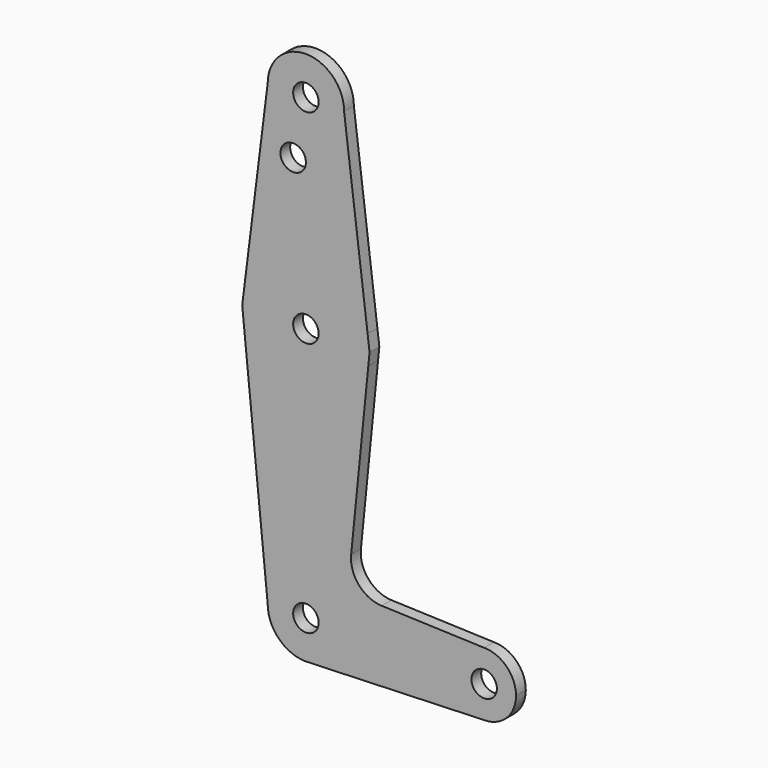
from build123d import *

# Parameters (mm, degrees)
F0_R     = 3.175
F1_DEPTH = 3.048


with BuildPart() as f1:
    # F0 (on Front) → F1 (new body)
    with BuildSketch(Plane.XZ):
        with BuildLine():
            ThreePointArc((9.525, 114.3), (0, 123.825), (-9.525, 114.3))
            ThreePointArc((-9.525, 114.3), (0, 104.775), (9.525, 114.3))
        make_face()
        with Locations((0, 114.3)):
            Circle(F0_R, mode=Mode.SUBTRACT)
        with BuildLine():
            Line((-9.525, 114.3), (-15.386538, 67.407692))
            ThreePointArc((-15.386538, 67.407692), (0, 79.375), (15.386538, 67.407692))
            Line((15.386538, 67.407692), (9.525, 114.3))
            ThreePointArc((9.525, 114.3), (0, 104.775), (-9.525, 114.3))
        make_face()
        with Locations((-3.175, 100.0252)):
            Circle(F0_R, mode=Mode.SUBTRACT)
        with BuildLine():
            Line((-15.875, 63.5), (-15.560644, 60.356436))
            ThreePointArc((-15.560644, 60.356436), (0, 47.625), (15.560644, 60.356436))
            Line((15.560644, 60.356436), (15.875, 63.5))
            Line((15.875, 63.5), (15.386538, 67.407692))
            ThreePointArc((15.386538, 67.407692), (0, 79.375), (-15.386538, 67.407692))
            Line((-15.386538, 67.407692), (-15.875, 63.5))
        make_face()
        with Locations((0, 63.5)):
            Circle(F0_R, mode=Mode.SUBTRACT)
        with BuildLine():
            ThreePointArc((-9.525, 0), (0, 9.525), (9.525, 0))
            ThreePointArc((9.525, 0), (6.97129, -6.490511), (0.67949, -9.500732))
            Line((0.67949, -9.500732), (44.45, -7.9375))
            ThreePointArc((44.45, -7.9375), (36.5125, 0), (44.45, 7.9375))
            Line((44.45, 7.9375), (18.910573, 8.849622))
            ThreePointArc((18.910573, 8.849622), (13.205355, 11.566192), (11.283583, 17.585831))
            Line((11.283583, 17.585831), (15.560644, 60.356436))
            ThreePointArc((15.560644, 60.356436), (0, 47.625), (-15.560644, 60.356436))
            Line((-15.560644, 60.356436), (-9.525, 0))
        make_face()
        with BuildLine():
            ThreePointArc((0.67949, -9.500732), (6.97129, -6.490511), (9.525, 0))
            ThreePointArc((9.525, 0), (0, 9.525), (-9.525, 0))
            ThreePointArc((-9.525, 0), (-6.735192, -6.735192), (0, -9.525))
            Line((0, -9.525), (0.67949, -9.500732))
        make_face()
        Circle(F0_R, mode=Mode.SUBTRACT)
        with BuildLine():
            ThreePointArc((44.45, 7.9375), (36.5125, 0), (44.45, -7.9375))
            ThreePointArc((44.45, -7.9375), (50.06266, -5.61266), (52.3875, 0))
            ThreePointArc((52.3875, 0), (50.06266, 5.61266), (44.45, 7.9375))
        make_face()
        with Locations((44.45, 0)):
            Circle(F0_R, mode=Mode.SUBTRACT)
    extrude(amount=F1_DEPTH)


solid = f1.part
